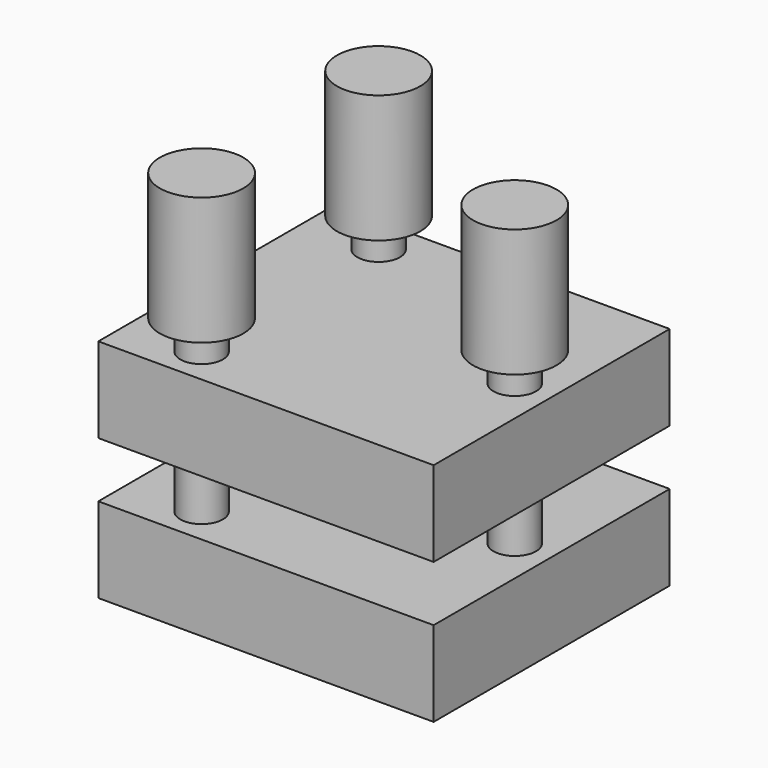
from build123d import *

# Parameters (mm, degrees)
BOX001_W          = 50
BOX001_H          = 44
BOX001_DEPTH      = 12.7
CYLINDER001_R     = 6.223
CYLINDER001_DEPTH = 19.05
CYLINDER_R        = 3.175
CYLINDER_DEPTH    = 25.4
CYLINDER003_R     = 6.223
CYLINDER003_DEPTH = 19.05
CYLINDER002_R     = 3.175
CYLINDER002_DEPTH = 25.4
CYLINDER005_R     = 6.223
CYLINDER005_DEPTH = 19.05
CYLINDER004_R     = 3.175
CYLINDER004_DEPTH = 25.4
BOX_W             = 50
BOX_H             = 44
BOX_DEPTH         = 12.7


with BuildPart() as top_plate:
    # Box001 → Box001 (new body)
    with BuildSketch(Plane.XY.offset(21)):
        with Locations((25, 22)):
            Rectangle(BOX001_W, BOX001_H)
    extrude(amount=BOX001_DEPTH)


with BuildPart() as screw_cap:
    # Cylinder001 → Cylinder001 (new body)
    with BuildSketch(Plane.XY.offset(25.4)):
        Circle(CYLINDER001_R)
    extrude(amount=CYLINDER001_DEPTH)


with BuildPart() as left_screw:
    # Cylinder → Cylinder (new body)
    with BuildSketch(Plane.XY):
        Circle(CYLINDER_R)
    extrude(amount=CYLINDER_DEPTH)

    # Fusion: union Screw Cap
    add(screw_cap.part)


with BuildPart() as left_screw_1:
    # Fusion placement: moved
    add(left_screw.part.moved(Location((11, 5.5, 12.7))))


with BuildPart() as screw_cap001:
    # Cylinder003 → Cylinder003 (new body)
    with BuildSketch(Plane.XY.offset(25.4)):
        Circle(CYLINDER003_R)
    extrude(amount=CYLINDER003_DEPTH)


with BuildPart() as right_screw:
    # Cylinder002 → Cylinder002 (new body)
    with BuildSketch(Plane.XY):
        Circle(CYLINDER002_R)
    extrude(amount=CYLINDER002_DEPTH)

    # Fusion001: union Screw Cap001
    add(screw_cap001.part)


with BuildPart() as right_screw_1:
    # Fusion001 placement: moved
    add(right_screw.part.moved(Location((11, 38.5, 12.7))))


with BuildPart() as screw_cap002:
    # Cylinder005 → Cylinder005 (new body)
    with BuildSketch(Plane.XY.offset(25.4)):
        Circle(CYLINDER005_R)
    extrude(amount=CYLINDER005_DEPTH)


with BuildPart() as center_screw:
    # Cylinder004 → Cylinder004 (new body)
    with BuildSketch(Plane.XY):
        Circle(CYLINDER004_R)
    extrude(amount=CYLINDER004_DEPTH)

    # Fusion002: union Screw Cap002
    add(screw_cap002.part)


with BuildPart() as center_screw_1:
    # Fusion002 placement: moved
    add(center_screw.part.moved(Location((44.5, 22, 12.7))))


with BuildPart() as fusion003:
    # Box → Box (new body)
    with BuildSketch(Plane.XY):
        with Locations((25, 22)):
            Rectangle(BOX_W, BOX_H)
    extrude(amount=BOX_DEPTH)

    # Fusion003: union Top Plate, Left Screw, Right Screw, Center Screw
    add(top_plate.part)
    add(left_screw_1.part)
    add(right_screw_1.part)
    add(center_screw_1.part)


solid = fusion003.part
